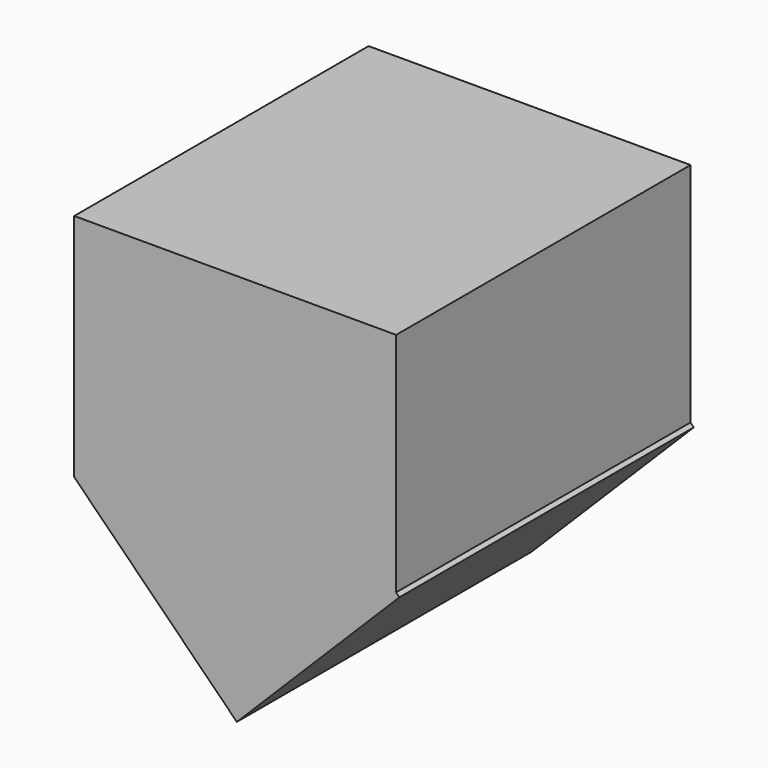
from build123d import *

# Parameters (mm, degrees)
BOX_W                  = 14
BOX_H                  = 16
BOX_DEPTH              = 10
BOX001_W               = 10
BOX001_H               = 16
BOX001_DEPTH           = 10
BOX001_PLACEMENT_ANGLE = 45


with BuildPart() as cub:
    # Box → Box (new body)
    with BuildSketch(Plane.XY):
        with Locations((7, 8)):
            Rectangle(BOX_W, BOX_H)
    extrude(amount=BOX_DEPTH)


with BuildPart() as fusion:
    # Box001 → Box001 (new body)
    with BuildSketch(Plane.XY):
        with Locations((5, 8)):
            Rectangle(BOX001_W, BOX001_H)
    extrude(amount=BOX001_DEPTH)


with BuildPart() as fusion_1:
    # Box001 placement: moved
    add(fusion.part.rotate(Axis((0, 0, 0), (0, 1, 0)), BOX001_PLACEMENT_ANGLE))

    # Fusion: union Cub
    add(cub.part)


solid = fusion_1.part
